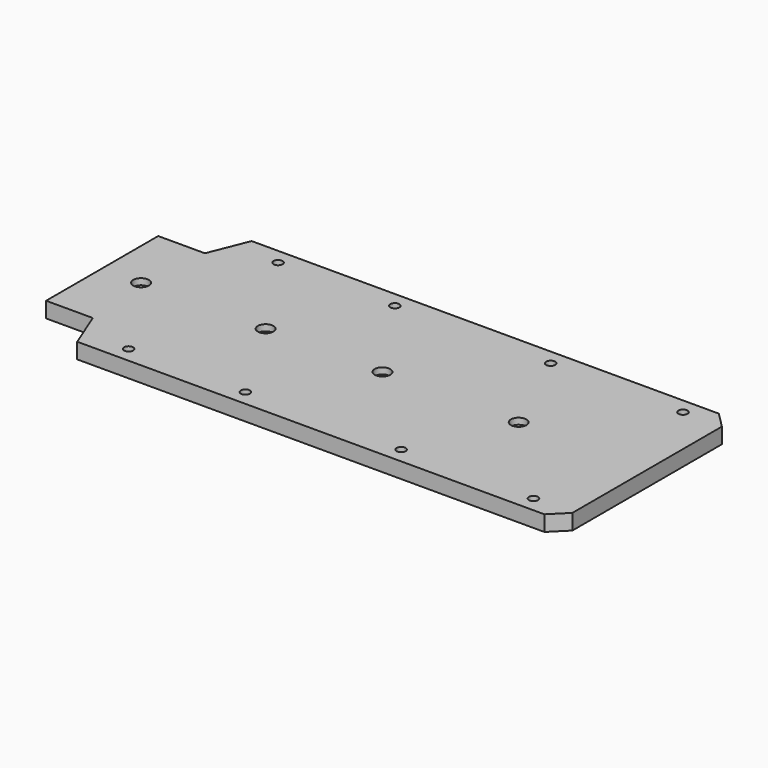
from build123d import *

# Parameters (mm, degrees)
PAD_DEPTH           = 10
HOLE004_D           = 5.5
HOLE004_DEPTH       = 25
HOLE004_CBORE_D     = 10
HOLE004_CBORE_DEPTH = 4
SKETCH010_R         = 2.9
HOLE005_DEPTH       = 25


with BuildPart() as part:
    # Sketch → Pad (new body)
    with BuildSketch(Plane.XY):
        Polygon((0, 70), (300, 70), (310, 60), (310, -60), (300, -70), (0, -70), (-10, -45), (-40, -45), (-40, 45), (-10, 45), align=None)
    extrude(amount=PAD_DEPTH)

    # Hole004
    with Locations(Plane.XY.offset(10)):
        with Locations((-15, 0), (65, 0), (140, 0), (227.5, 0)):
            CounterBoreHole(HOLE004_D / 2, HOLE004_CBORE_D / 2, HOLE004_CBORE_DEPTH, depth=HOLE004_DEPTH)

    # Sketch010 (on Face4 of Hole004) → Hole005 (cut)
    with BuildSketch(Plane(origin=(0, 0, 0), x_dir=(1, 0, 0), z_dir=(0, 0, -1))):
        with Locations((25, 60)):
            Circle(SKETCH010_R)
        with Locations((100, 60)):
            Circle(SKETCH010_R)
        with Locations((200, 60)):
            Circle(SKETCH010_R)
        with Locations((285, 60)):
            Circle(SKETCH010_R)
        with Locations((25, -60)):
            Circle(SKETCH010_R)
        with Locations((100, -60)):
            Circle(SKETCH010_R)
        with Locations((200, -60)):
            Circle(SKETCH010_R)
        with Locations((285, -60)):
            Circle(SKETCH010_R)
    extrude(amount=-HOLE005_DEPTH, mode=Mode.SUBTRACT)


solid = part.part
